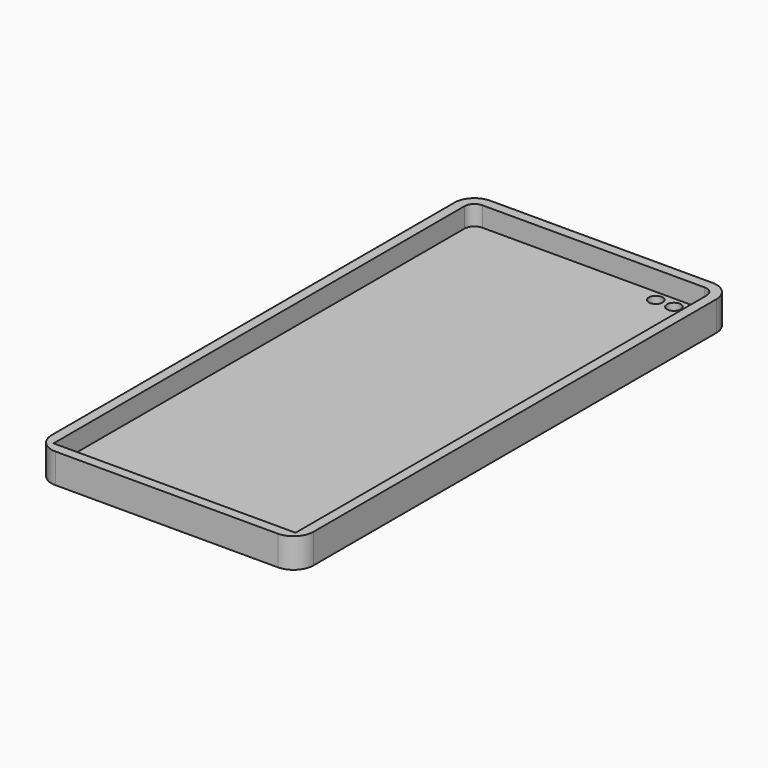
from build123d import *

# Parameters (mm, degrees)
F0_W     = 67.31
F0_H     = 139.7
F1_DEPTH = 7.62
F2_R     = 5.08
F3_T     = -2.54
F4_R     = 5.08
F6_R     = 5.08
F7_D     = 3.556
F8_D     = 3.556


with BuildPart() as f1:
    # F0 (on Top) → F1 (new body)
    with BuildSketch(Plane.XY):
        Rectangle(F0_W, F0_H)
    extrude(amount=F1_DEPTH)

    # F2
    f2_edges = [f1.edges().sort_by_distance(p)[0] for p in [
        (33.655, 69.85, 3.81),
        (-33.655, 69.85, 3.81),
    ]]
    fillet(f2_edges, radius=F2_R)

    # F3
    f3_openings = [f1.faces().sort_by_distance(p)[0] for p in [
        (0, -0.081036, 7.62),
    ]]
    offset(amount=F3_T, openings=f3_openings)

    # F4
    f4_edges = [f1.edges().sort_by_distance(p)[0] for p in [
        (-33.655, -69.85, 3.81),
    ]]
    fillet(f4_edges, radius=F4_R)

    # F6
    f6_edges = [f1.edges().sort_by_distance(p)[0] for p in [
        (33.655, -69.85, 3.81),
    ]]
    fillet(f6_edges, radius=F6_R)

    # F7 (through all)
    with Locations(Plane(origin=(0, 0, 0), x_dir=(1, 0, 0), z_dir=(0, 0, -1))):
        with Locations((18.2498693466, -64.5460113883)):
            Hole(F7_D / 2)

    # F8 (through all)
    with Locations(Plane(origin=(0, 0, 0), x_dir=(1, 0, 0), z_dir=(0, 0, -1))):
        with Locations((22.9663196951, -64.4813999534)):
            Hole(F8_D / 2)


solid = f1.part
